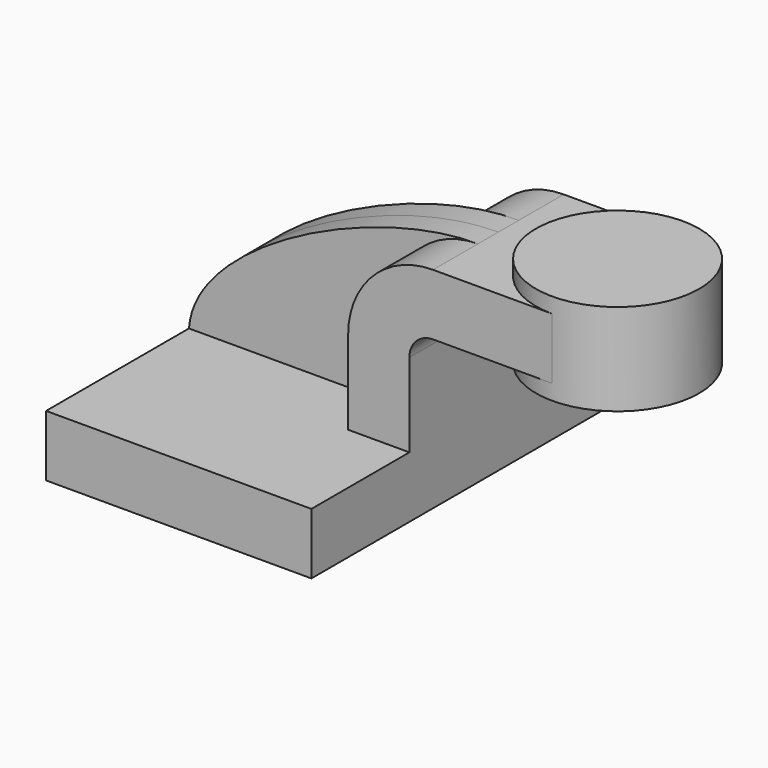
from build123d import *

# Parameters (mm, degrees)
F1_DEPTH = 63.5
F0_W     = 25.4
F0_H     = 19.0500000358
F2_DEPTH = 25.4
F3_DEPTH = 7.9375


with BuildPart() as f1:
    # F0 (on Front) → F1 (new body, symmetric)
    with BuildSketch(Plane.XZ):
        Polygon((-41.275, -9.525), (41.275, -9.525), (41.275, 9.525), (22.2249999642, 9.525), (-41.275, 9.525), align=None)
    extrude(amount=F1_DEPTH, both=True)

    # F0 (on Front) → F2 (join, symmetric)
    with BuildSketch(Plane.XZ):
        with Locations((73.025, 52.4002000179)):
            Rectangle(F0_W, F0_H)
        with BuildLine():
            Line((22.2249999642, 9.525), (41.275, 9.525))
            Line((41.275, 9.525), (41.275, 35.5059314692))
            ThreePointArc((41.275, 35.5059314692), (43.4334087803, 40.7167912197), (48.6442685308, 42.8752))
            Line((48.6442685308, 42.8752), (60.325, 42.8752))
            Line((60.325, 42.8752), (60.325, 61.9252000358))
            Line((60.325, 61.9252000358), (48.6442685308, 61.9252000358))
            ThreePointArc((48.6442685308, 61.9252000358), (29.9630245734, 54.1871754266), (22.2249999642, 35.5059314692))
            Line((22.2249999642, 35.5059314692), (22.2249999642, 9.525))
        make_face()
    extrude(amount=F2_DEPTH, both=True)

    # F0 (on Front) → F3 (join, symmetric)
    with BuildSketch(Plane.XZ):
        with BuildLine():
            add(Edge.make_bspline(
                [(-41.275, 9.525), (-39.4913367927, 35.5950407684), (16.4129212499, 62.2470639646), (48.6442685308, 61.9252000358)],
                knots=[0, 0, 0, 0, 104.0733194287, 104.0733194287, 104.0733194287, 104.0733194287], degree=3))
            Line((-41.275, 9.525), (22.2249999642, 9.525))
            Line((22.2249999642, 9.525), (22.2249999642, 35.5059314692))
            ThreePointArc((22.2249999642, 35.5059314692), (29.9630245734, 54.1871754266), (48.6442685308, 61.9252000358))
        make_face()
    extrude(amount=F3_DEPTH, both=True)

    # F0 (on Front) → F4 (revolve)
    with BuildSketch(Plane.XZ):
        Polygon((85.725, 66.675), (85.725, 61.9252000358), (85.725, 42.8752), (85.725, 38.1), (111.125, 38.1), (111.125, 66.675), align=None)
    revolve(axis=Axis((85.725, 0, 52.3875), (0, 0, -1)))


solid = f1.part
